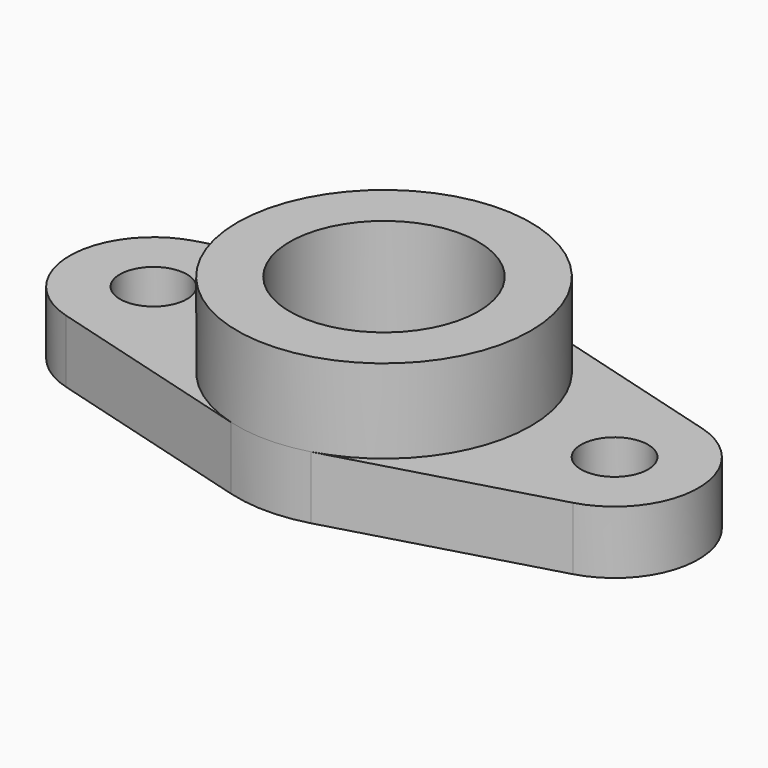
from build123d import *

# Parameters (mm, degrees)
SKETCH_R      = 22.5
SKETCH_R_2    = 8
PAD_DEPTH     = 15
SKETCH002_R   = 35
SKETCH002_R_2 = 22.5
PAD001_DEPTH  = 20


with BuildPart() as part:
    # Sketch → Pad (new body)
    with BuildSketch(Plane.XY):
        with BuildLine():
            ThreePointArc((9.5455310911, 33.6731768057), (3.97682e-05, 35), (-9.5454545699, 33.6731984975))
            Line((-60.4545457907, 19.2418276215), (-9.5454545698, 33.6731984975))
            ThreePointArc((-60.4545457907, 19.2418276215), (-75, -1.844e-07), (-60.4545454359, -19.2418277221))
            Line((-60.4545454359, -19.2418277221), (-9.5454544023, -33.673198545))
            ThreePointArc((-9.5454544023, -33.673198545), (3.842e-07, -35), (9.5454551416, -33.6731983355))
            Line((9.5454551416, -33.6731983355), (60.4545455403, -19.2418276925))
            ThreePointArc((60.4545455403, -19.2418276925), (75, 6.189e-07), (60.4545443494, 19.2418280301))
            Line((9.5455310911, 33.6731768057), (60.4545443495, 19.2418280301))
        make_face()
        Circle(SKETCH_R, mode=Mode.SUBTRACT)
        with Locations((-55, 0)):
            Circle(SKETCH_R_2, mode=Mode.SUBTRACT)
        with Locations((55, 0)):
            Circle(SKETCH_R_2, mode=Mode.SUBTRACT)
    extrude(amount=PAD_DEPTH)

    # Sketch002 → Pad001 (new body)
    with BuildSketch(Plane.XY.offset(15)):
        Circle(SKETCH002_R)
        Circle(SKETCH002_R_2, mode=Mode.SUBTRACT)
    extrude(amount=PAD001_DEPTH)


solid = part.part
